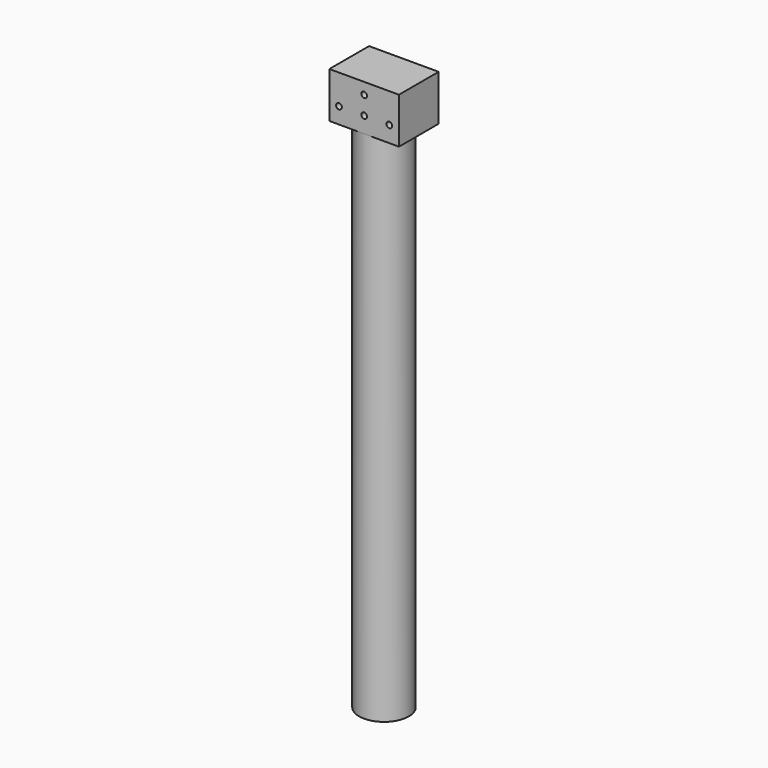
from build123d import *

# Parameters (mm, degrees)
F0_R     = 10.85
F1_DEPTH = 225
F4_DEPTH = 15.21
F6_D     = 2.5
F6_DEPTH = 15
F6_TIP   = 0.7510757738


with BuildPart() as f1:
    # F0 (on Top) → F1 (new body)
    with BuildSketch(Plane.XY):
        Circle(F0_R)
    extrude(amount=F1_DEPTH)

    # F3 (on face) → F4 (join, symmetric)
    with BuildSketch(Plane.YZ):
        Polygon((-10.8373243377, 245), (-10.8373243377, 225), (10.8499713242, 225), align=None)
        Polygon((10.8499713242, 245), (-10.8373243377, 245), (10.8499713242, 225), align=None)
    extrude(amount=F4_DEPTH, both=True)

    # F6
    with Locations(Plane.XZ.offset(10.8373243377)):
        with Locations((11, 232), (0, 232), (-11, 232), (0, 240)):
            Hole(F6_D / 2, depth=F6_DEPTH)
            with Locations((0, 0, -(F6_DEPTH + F6_TIP / 2))):  # 118° drill point
                Cone(0, F6_D / 2, F6_TIP, mode=Mode.SUBTRACT)


solid = f1.part
